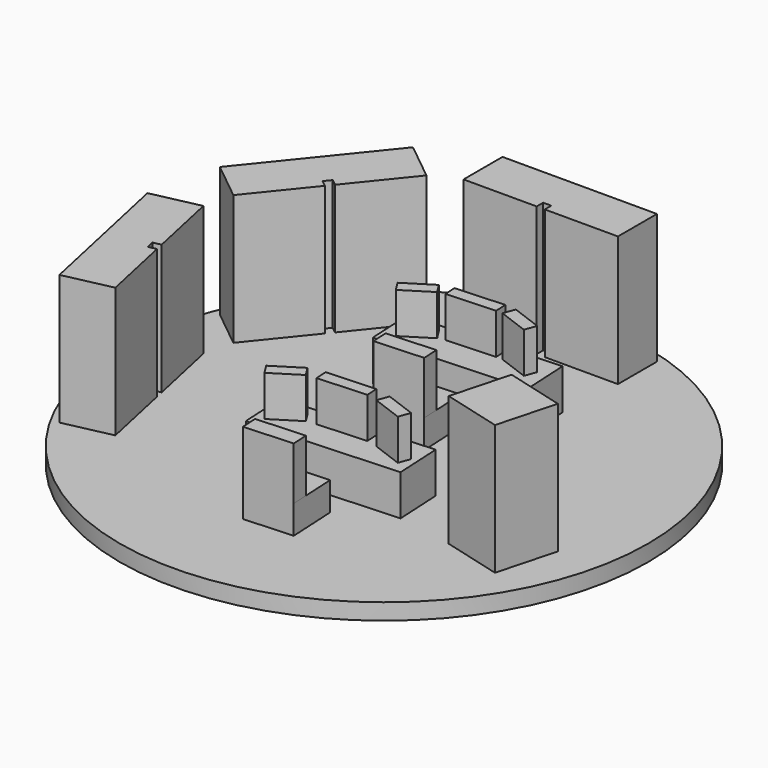
from build123d import *

# Parameters (mm, degrees)
F0_R      = 32.5
F1_DEPTH  = 2
F3_DEPTH  = 16
F5_DEPTH  = 5
F8_DEPTH  = 3.5
F10_DEPTH = 6.5
F12_DEPTH = 5


with BuildPart() as f1:
    # F0 (on Top) → F1 (new body)
    with BuildSketch(Plane.XY):
        Circle(F0_R)
    extrude(amount=F1_DEPTH)

    # F2 (on face) → F3 (join)
    with BuildSketch(Plane.XY.offset(2)):
        Polygon((-17.470987, 26.293807), (-29.398278, 11.503954), (-24.727798, 7.737442), (-19.078029, 14.743161), (-19.856442, 15.370914), (-19.22869, 16.149327), (-18.450276, 15.521575), (-12.800507, 22.527294), align=None)
        Polygon((9.5, 30.105642), (-9.5, 30.105642), (-9.5, 24.105642), (-0.5, 24.105642), (-0.5, 25.105642), (0.5, 25.105642), (0.5, 24.105642), (9.5, 24.105642), align=None)
        Polygon((-31.434899, 2.906345), (-27.409662, -15.662378), (-21.545855, -14.391251), (-23.452546, -5.59554), (-24.429847, -5.807395), (-24.641702, -4.830094), (-23.664401, -4.618239), (-25.571091, 4.177472), align=None)
        Polygon((26.734962, -6.679754), (19.490518, -4.738611), (17.549375, -11.983055), (24.793819, -13.924198), align=None)
    extrude(amount=F3_DEPTH)

    # F4 (on face) → F5 (join)
    with BuildSketch(Plane.XY.offset(2)):
        Polygon((10.338692, -4.986162), (-7.925741, -5.943361), (-7.623178, -11.7166), (10.641255, -10.759402), align=None)
        Polygon((9.017375, 16.199804), (-9.247058, 15.242605), (-8.944496, 9.469366), (9.319937, 10.426564), align=None)
    extrude(amount=F5_DEPTH)

    # F7 (on face) → F8 (join)
    with BuildSketch(Plane.XY.offset(2)):
        Polygon((3.241127, 7.73687), (-2.750651, 7.422854), (-2.436635, 1.431077), (3.555142, 1.745093), align=None)
        Polygon((4.577761, -14.010625), (-1.414016, -14.324641), (-1.1, -20.316418), (4.891777, -20.002403), align=None)
    extrude(amount=F8_DEPTH)

    # F9 (on face) → F10 (join)
    with BuildSketch(Plane.XY.offset(5.5)):
        Polygon((3.45047, 3.742352), (-2.541307, 3.428336), (-2.436635, 1.431077), (3.555142, 1.745093), align=None)
        Polygon((4.787105, -18.005143), (-1.204672, -18.319159), (-1.1, -20.316418), (4.891777, -20.002403), align=None)
    extrude(amount=F10_DEPTH)

    # F11 (on face) → F12 (join)
    with BuildSketch(Plane.XY.offset(7)):
        Polygon((-3.905181, -6.876087), (-7.291749, -9.004739), (-6.493505, -10.274702), (-3.106937, -8.14605), align=None)
        Polygon((4.006315, -6.182721), (-1.985463, -6.496736), (-1.906959, -7.994681), (4.084819, -7.680665), align=None)
        Polygon((9.730671, -7.986948), (5.980971, -6.594201), (5.458691, -8.000339), (9.208391, -9.393086), align=None)
        Polygon((-4.832129, 14.484637), (-8.218697, 12.355986), (-7.420453, 11.086022), (-4.033884, 13.214674), align=None)
        Polygon((2.746676, 15.221225), (-3.245101, 14.907209), (-3.166597, 13.409265), (2.82518, 13.72328), align=None)
        Polygon((7.883003, 13.715759), (4.133302, 15.108505), (3.611022, 13.702367), (7.360723, 12.309621), align=None)
    extrude(amount=F12_DEPTH)


solid = f1.part
